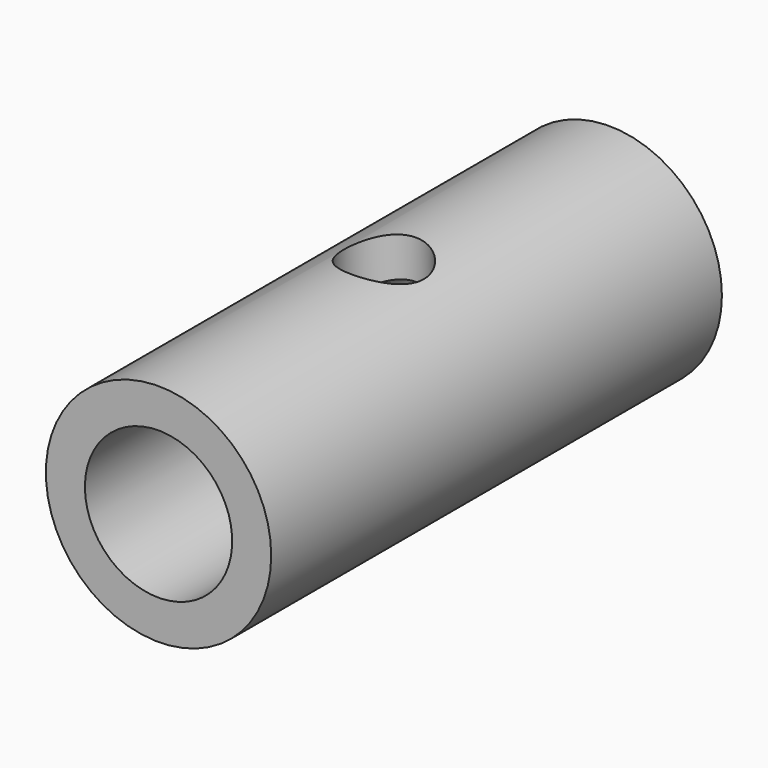
from build123d import *

# Parameters (mm, degrees)
F0_R          = 10
F1_DEPTH      = 50
F2_R          = 3.55
F3_DEPTH      = 25
F3_DEPTH_BACK = 25
F4_R          = 6.5365859356
F5_DEPTH      = 60


with BuildPart() as f1:
    # F0 (on Front) → F1 (new body)
    with BuildSketch(Plane.XZ):
        Circle(F0_R)
    extrude(amount=F1_DEPTH)

    # F2 (on Top) → F3 (cut, two sides)
    with BuildSketch(Plane.XY) as f3_sk:
        with Locations((0, -25)):
            Circle(F2_R)
    extrude(amount=-F3_DEPTH, mode=Mode.SUBTRACT)
    extrude(f3_sk.sketch, amount=F3_DEPTH_BACK, mode=Mode.SUBTRACT)

    # F4 (on face) → F5 (cut)
    with BuildSketch(Plane(origin=(0, 0, 0), x_dir=(-1, 0, 0), z_dir=(0, 1, 0))):
        Circle(F4_R)
    extrude(amount=-F5_DEPTH, mode=Mode.SUBTRACT)


solid = f1.part
